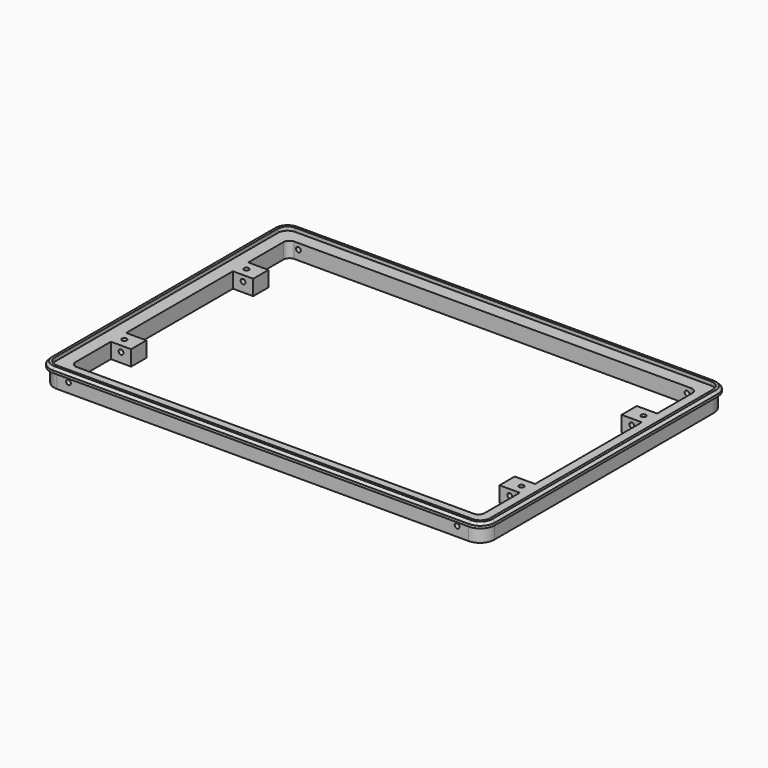
from build123d import *

# Parameters (mm, degrees)
F0_R     = 2.1
F1_DEPTH = 16
F2_SIZE  = 2
F4_DEPTH = 3.1
F6_DEPTH = 12
F7_R     = 2
F8_DEPTH = 256.101


with BuildPart() as f1:
    # F0 (on Top) → F1 (new body)
    with BuildSketch(Plane.XY):
        with BuildLine():
            Line((174.5, 129), (-174.5, 129))
            ThreePointArc((-174.5, 129), (-182.985281, 125.485281), (-186.5, 117))
            Line((-186.5, 117), (-186.5, -117))
            ThreePointArc((-186.5, -117), (-182.985281, -125.485281), (-174.5, -129))
            Line((-174.5, -129), (174.5, -129))
            ThreePointArc((174.5, -129), (182.985281, -125.485281), (186.5, -117))
            Line((186.5, -117), (186.5, 117))
            ThreePointArc((186.5, 117), (182.985281, 125.485281), (174.5, 129))
        make_face()
        with Locations((-166.5, -64)):
            Circle(F0_R, mode=Mode.SUBTRACT)
        with Locations((166.5, -64)):
            Circle(F0_R, mode=Mode.SUBTRACT)
        with Locations((-166.5, 64)):
            Circle(F0_R, mode=Mode.SUBTRACT)
        with BuildLine():
            ThreePointArc((-171.5, 109), (-170.035534, 112.535534), (-166.5, 114))
            Line((-166.5, 114), (166.5, 114))
            ThreePointArc((166.5, 114), (170.035534, 112.535534), (171.5, 109))
            Line((171.5, 109), (171.5, 72))
            Line((171.5, 72), (154.5, 72))
            Line((154.5, 72), (154.5, 56))
            Line((154.5, 56), (171.5, 56))
            Line((171.5, 56), (171.5, -56))
            Line((171.5, -56), (154.5, -56))
            Line((154.5, -56), (154.5, -72))
            Line((154.5, -72), (171.5, -72))
            Line((171.5, -72), (171.5, -109))
            ThreePointArc((171.5, -109), (170.035534, -112.535534), (166.5, -114))
            Line((166.5, -114), (-166.5, -114))
            ThreePointArc((-166.5, -114), (-170.035534, -112.535534), (-171.5, -109))
            Line((-171.5, -109), (-171.5, -72))
            Line((-171.5, -72), (-154.5, -72))
            Line((-154.5, -72), (-154.5, -56))
            Line((-154.5, -56), (-171.5, -56))
            Line((-171.5, -56), (-171.5, 56))
            Line((-171.5, 56), (-154.5, 56))
            Line((-154.5, 56), (-154.5, 72))
            Line((-154.5, 72), (-171.5, 72))
            Line((-171.5, 72), (-171.5, 109))
        make_face(mode=Mode.SUBTRACT)
        with Locations((166.5, 64)):
            Circle(F0_R, mode=Mode.SUBTRACT)
    extrude(amount=F1_DEPTH)

    # F2
    f2_edges = [f1.edges().sort_by_distance(p)[0] for p in [
        (0, -129, 16),
    ]]
    chamfer(f2_edges, length=F2_SIZE)

    # F3 (on face) → F4 (cut)
    with BuildSketch(Plane.XY.offset(16)):
        with BuildLine():
            ThreePointArc((-174.5, 125), (-180.156854, 122.656854), (-182.5, 117))
            Line((-182.5, 117), (-182.5, -117))
            ThreePointArc((-182.5, -117), (-180.156854, -122.656854), (-174.5, -125))
            Line((-174.5, -125), (174.5, -125))
            ThreePointArc((174.5, -125), (180.156854, -122.656854), (182.5, -117))
            Line((182.5, -117), (182.5, 117))
            ThreePointArc((182.5, 117), (180.156854, 122.656854), (174.5, 125))
            Line((174.5, 125), (-174.5, 125))
        make_face()
    extrude(amount=-F4_DEPTH, mode=Mode.SUBTRACT)

    # F5 (on face) → F6 (cut)
    with BuildSketch(Plane.XY):
        with BuildLine():
            Line((172.6, 132.1), (-172.6, 132.1))
            ThreePointArc((-172.6, 132.1), (-184.620815, 127.120815), (-189.6, 115.1))
            Line((-189.6, 115.1), (-189.6, -115.1))
            ThreePointArc((-189.6, -115.1), (-184.620815, -127.120815), (-172.6, -132.1))
            Line((-172.6, -132.1), (172.6, -132.1))
            ThreePointArc((172.6, -132.1), (184.620815, -127.120815), (189.6, -115.1))
            Line((189.6, -115.1), (189.6, 115.1))
            ThreePointArc((189.6, 115.1), (184.620815, 127.120815), (172.6, 132.1))
        make_face()
        with BuildLine():
            ThreePointArc((-184.6, 115.1), (-181.085281, 123.585281), (-172.6, 127.1))
            Line((-172.6, 127.1), (172.6, 127.1))
            ThreePointArc((172.6, 127.1), (181.085281, 123.585281), (184.6, 115.1))
            Line((184.6, 115.1), (184.6, -115.1))
            ThreePointArc((184.6, -115.1), (181.085281, -123.585281), (172.6, -127.1))
            Line((172.6, -127.1), (-172.6, -127.1))
            ThreePointArc((-172.6, -127.1), (-181.085281, -123.585281), (-184.6, -115.1))
            Line((-184.6, -115.1), (-184.6, 115.1))
        make_face(mode=Mode.SUBTRACT)
    extrude(amount=F6_DEPTH, mode=Mode.SUBTRACT)

    # F7 (on face) → F8 (cut, through all)
    with BuildSketch(Plane.XZ.offset(127.1)):
        with Locations((-163, 8)):
            Circle(F7_R)
        with Locations((163, 8)):
            Circle(F7_R)
    extrude(amount=-F8_DEPTH, mode=Mode.SUBTRACT)


solid = f1.part
